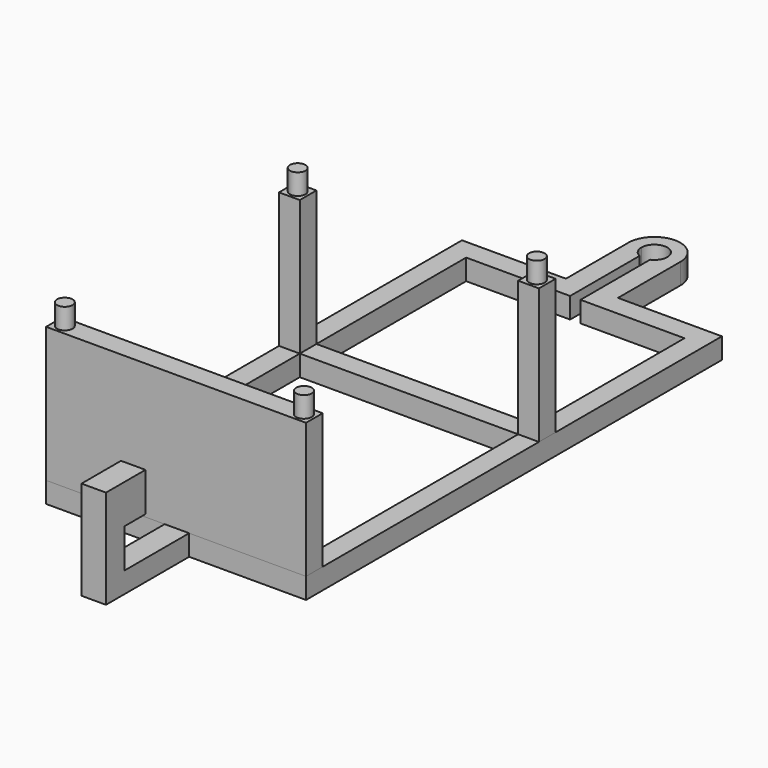
from build123d import *

# Parameters (mm, degrees)
F0_W      = 5.08
F0_H      = 5.08
F1_DEPTH  = 38.1
F0_W_2    = 53.34
F0_H_2    = 45.72
F0_H_3    = 66.04
F2_DEPTH  = 5.08
F5_R      = 1.905
F6_DEPTH  = 5.08
F4_R      = 1.905
F3_R      = 1.905
F7_W      = 5.9777759016
F7_H      = 5.08
F8_DEPTH  = 25.4
F9_W      = 5.9777759016
F9_H      = 5.7076345921
F10_DEPTH = 19.05
F11_W     = 5.9777759016
F11_H     = 9.525
F12_DEPTH = 6.35


with BuildPart() as f1:
    # F0 (on Top) → F1 (new body)
    with BuildSketch(Plane.XY):
        with Locations((-57.6535785222, -53.34)):
            Rectangle(F0_W, F0_H)
    extrude(amount=F1_DEPTH)


with BuildPart() as f1b:
    # F0 (on Top) → F1, piece 2 (new body)
    with BuildSketch(Plane.XY):
        with Locations((0.7664214778, -53.34)):
            Rectangle(F0_W, F0_H)
    extrude(amount=F1_DEPTH)


with BuildPart() as f1c:
    # F0 (on Top) → F1, piece 3 (new body)
    with BuildSketch(Plane.XY):
        with Locations((0.7664214778, -124.46)):
            Rectangle(F0_W, F0_H)
        with Locations((-57.6535785222, -124.46)):
            Rectangle(F0_W, F0_H)
        with Locations((-28.4435785222, -124.46)):
            Rectangle(F0_W_2, F0_H)
    extrude(amount=F1_DEPTH)

    # F5 (on face) → F6 (join)
    with BuildSketch(Plane.XY.offset(38.1)):
        with Locations((-57.6535785222, -124.46)):
            Circle(F5_R)
        with Locations((0.7664214778, -124.46)):
            Circle(F5_R)
    extrude(amount=F6_DEPTH)


with BuildPart() as f2:
    # F0 (on Top) → F2 (new body)
    with BuildSketch(Plane.XY):
        with BuildLine():
            Line((-22.0935785222, 19.05), (-25.2685785222, 19.05))
            ThreePointArc((-25.2685785222, 19.05), (-25.787182938, 17.3109808799), (-27.1735785222, 16.1400644337))
            Line((-27.1735785222, 16.1400644337), (-27.1735785222, 12.8282960533))
            ThreePointArc((-27.1735785222, 12.8282960533), (-23.5248896725, 15.0339073716), (-22.0935785222, 19.05))
        make_face()
        with BuildLine():
            ThreePointArc((-31.6185785222, 19.05), (-28.4435785222, 22.225), (-25.2685785222, 19.05))
            Line((-25.2685785222, 19.05), (-22.0935785222, 19.05))
            ThreePointArc((-22.0935785222, 19.05), (-28.4435785222, 25.4), (-34.7935785222, 19.05))
            Line((-34.7935785222, 19.05), (-31.6185785222, 19.05))
        make_face()
        with BuildLine():
            ThreePointArc((-29.7135785222, 16.1400644337), (-31.0999741065, 17.3109808799), (-31.6185785222, 19.05))
            Line((-31.6185785222, 19.05), (-34.7935785222, 19.05))
            ThreePointArc((-34.7935785222, 19.05), (-33.3622673719, 15.0339073716), (-29.7135785222, 12.8282960533))
            Line((-29.7135785222, 12.8282960533), (-29.7135785222, 16.1400644337))
        make_face()
        with BuildLine():
            Line((-22.0935785222, 0), (-22.0935785222, 19.05))
            ThreePointArc((-22.0935785222, 19.05), (-23.5248896725, 15.0339073716), (-27.1735785222, 12.8282960533))
            Line((-27.1735785222, 12.8282960533), (-27.1735785222, 0))
            Line((-27.1735785222, 0), (-22.0935785222, 0))
        make_face()
        with BuildLine():
            ThreePointArc((-29.7135785222, 12.8282960533), (-33.3622673719, 15.0339073716), (-34.7935785222, 19.05))
            Line((-34.7935785222, 19.05), (-34.7935785222, 0))
            Line((-34.7935785222, 0), (-29.7135785222, 0))
            Line((-29.7135785222, 0), (-29.7135785222, 12.8282960533))
        make_face()
        Polygon((-1.7735785222, 0), (-22.0935785222, 0), (-27.1735785222, 0), (-27.1735785222, -5.08), (-1.7735785222, -5.08), align=None)
        Polygon((-29.7135785222, 0), (-34.7935785222, 0), (-55.1135785222, 0), (-55.1135785222, -5.08), (-29.7135785222, -5.08), align=None)
        with Locations((0.7664214778, -2.54)):
            Rectangle(F0_W, F0_H)
        with Locations((-57.6535785222, -2.54)):
            Rectangle(F0_W, F0_H)
        with Locations((0.7664214778, -27.94)):
            Rectangle(F0_W, F0_H_2)
        with Locations((-57.6535785222, -27.94)):
            Rectangle(F0_W, F0_H_2)
        with Locations((0.7664214778, -53.34)):
            Rectangle(F0_W, F0_H)
        with Locations((-57.6535785222, -53.34)):
            Rectangle(F0_W, F0_H)
        with Locations((0.7664214778, -88.9)):
            Rectangle(F0_W, F0_H_3)
        with Locations((-57.6535785222, -88.9)):
            Rectangle(F0_W, F0_H_3)
        with Locations((0.7664214778, -124.46)):
            Rectangle(F0_W, F0_H)
        with Locations((-28.4435785222, -124.46)):
            Rectangle(F0_W_2, F0_H)
        with Locations((-57.6535785222, -124.46)):
            Rectangle(F0_W, F0_H)
        with Locations((-28.4435785222, -53.34)):
            Rectangle(F0_W_2, F0_H)
    extrude(amount=F2_DEPTH)


with BuildPart() as f6:
    # F4 (on face) → F6, piece 2 (new body)
    with BuildSketch(Plane.XY.offset(38.1)):
        with Locations((0.7664214778, -53.34)):
            Circle(F4_R)
    extrude(amount=F6_DEPTH)


with BuildPart() as f6b:
    # F3 (on face) → F6, piece 3 (new body)
    with BuildSketch(Plane.XY.offset(38.1)):
        with Locations((-57.6535785222, -53.34)):
            Circle(F3_R)
    extrude(amount=F6_DEPTH)


with BuildPart() as f8:
    # F7 (on face) → F8 (new body)
    with BuildSketch(Plane.XZ.offset(127)):
        with Locations((-28.2295271754, 2.54)):
            Rectangle(F7_W, F7_H)
    extrude(amount=F8_DEPTH)

    # F9 (on face) → F10 (join)
    with BuildSketch(Plane.XY.offset(5.08)):
        with Locations((-28.2295271754, -149.546182704)):
            Rectangle(F9_W, F9_H)
    extrude(amount=F10_DEPTH)

    # F11 (on face) → F12 (join)
    with BuildSketch(Plane(origin=(0, -146.6923654079, 0), x_dir=(-1, 0, 0), z_dir=(0, 1, 0))):
        with Locations((28.2295271754, 19.3675)):
            Rectangle(F11_W, F11_H)
    extrude(amount=F12_DEPTH)


solid = Compound([f1.part, f1b.part, f1c.part, f2.part, f6.part, f6b.part, f8.part])
